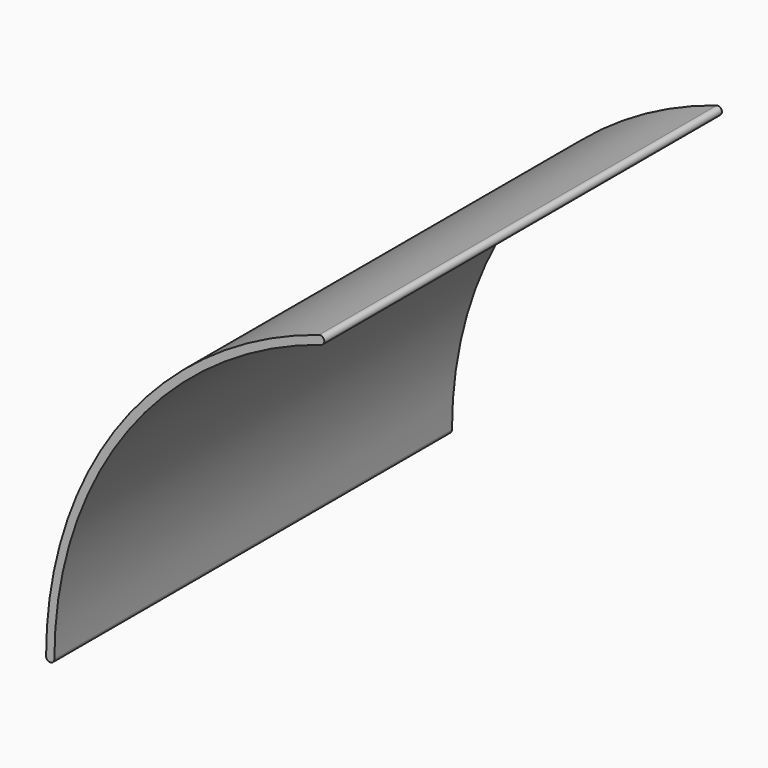
from build123d import *

# Parameters (mm, degrees)
F1_DEPTH = 30


with BuildPart() as f1:
    # F0 (on Front) → F1 (new body)
    with BuildSketch(Plane.XZ):
        with BuildLine():
            ThreePointArc((-23, 0), (-18.537495, 13.614745), (-6.881629, 21.946371))
            ThreePointArc((-6.881629, 21.946371), (-6.717881, 22.259719), (-7.031229, 22.423466))
            ThreePointArc((-7.031229, 22.423466), (-18.940484, 13.910717), (-23.5, 0))
            ThreePointArc((-23.5, 0), (-23.25, -0.25), (-23, 0))
        make_face()
    extrude(amount=F1_DEPTH)


solid = f1.part
